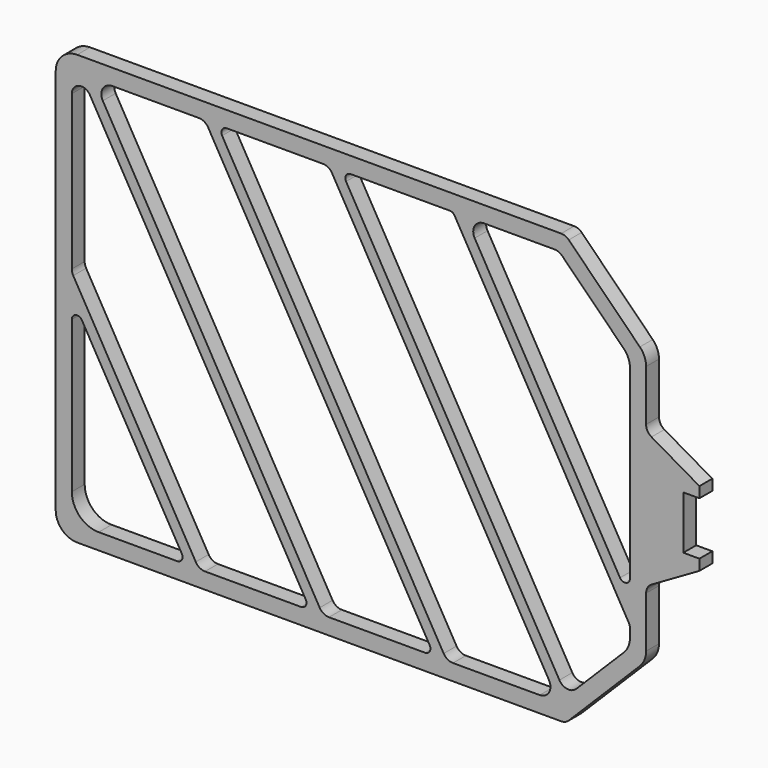
from build123d import *

# Parameters (mm, degrees)
F1_DEPTH = 3


with BuildPart() as f1:
    # F0 (on Front) → F1 (new body)
    with BuildSketch(Plane.XZ):
        with BuildLine():
            ThreePointArc((-55, -36), (-53.828427, -38.828427), (-51, -40))
            Line((-51, -40), (39.171573, -40))
            ThreePointArc((39.171573, -40), (39.93694, -39.847759), (40.585786, -39.414214))
            Line((40.585786, -39.414214), (53.828427, -26.171573))
            ThreePointArc((53.828427, -26.171573), (54.695518, -24.873879), (55, -23.343146))
            Line((55, -23.343146), (55, -13.837789))
            ThreePointArc((55, -13.837789), (55.267949, -12.837789), (56, -12.105738))
            Line((56, -12.105738), (64.93, -6.95))
            Line((64.93, -6.95), (64.93, -4.95))
            Line((64.93, -4.95), (61.93, -4.95))
            Line((61.93, -4.95), (61.93, 4.95))
            Line((61.93, 4.95), (64.93, 4.95))
            Line((64.93, 4.95), (64.93, 6.95))
            Line((64.93, 6.95), (56, 12.105738))
            ThreePointArc((56, 12.105738), (55.267949, 12.837789), (55, 13.837789))
            Line((55, 13.837789), (55, 23.343146))
            ThreePointArc((55, 23.343146), (54.695518, 24.873879), (53.828427, 26.171573))
            Line((53.828427, 26.171573), (40.585786, 39.414214))
            ThreePointArc((40.585786, 39.414214), (39.93694, 39.847759), (39.171573, 40))
            Line((39.171573, 40), (35.757359, 40))
            Line((35.757359, 40), (-51, 40))
            ThreePointArc((-51, 40), (-53.828427, 38.828427), (-55, 36))
            Line((-55, 36), (-55, -36))
        make_face()
        with BuildLine():
            ThreePointArc((-47, -37), (-50.535534, -35.535534), (-52, -32))
            Line((-52, -32), (-52, -3.732051))
            ThreePointArc((-52, -3.732051), (-51.258819, -2.766125), (-50.133975, -3.232051))
            Line((-50.133975, -3.232051), (-31.504065, -35.5))
            ThreePointArc((-31.504065, -35.5), (-31.504065, -36.5), (-32.370091, -37))
            Line((-32.370091, -37), (-47, -37))
        make_face(mode=Mode.SUBTRACT)
        with BuildLine():
            Line((-28.905989, -36), (-51.732051, 3.535898))
            ThreePointArc((-51.732051, 3.535898), (-51.931852, 4.01826), (-52, 4.535898))
            Line((-52, 4.535898), (-52, 33.282309))
            ThreePointArc((-52, 33.282309), (-50.665874, 35.020975), (-48.641154, 34.182309))
            Line((-48.641154, 34.182309), (-8.410055, -35.5))
            ThreePointArc((-8.410055, -35.5), (-8.410055, -36.5), (-9.27608, -37))
            Line((-9.27608, -37), (-27.173938, -37))
            ThreePointArc((-27.173938, -37), (-28.173938, -36.732051), (-28.905989, -36))
        make_face(mode=Mode.SUBTRACT)
        with BuildLine():
            ThreePointArc((-46.226497, 34), (-46.226497, 36), (-44.494447, 37))
            Line((-44.494447, 37), (-28.328639, 37))
            ThreePointArc((-28.328639, 37), (-27.328639, 36.732051), (-26.596588, 36))
            Line((-26.596588, 36), (14.683956, -35.5))
            ThreePointArc((14.683956, -35.5), (14.683956, -36.5), (13.817931, -37))
            Line((13.817931, -37), (-4.079928, -37))
            ThreePointArc((-4.079928, -37), (-5.079928, -36.732051), (-5.811978, -36))
            Line((-5.811978, -36), (-46.226497, 34))
        make_face(mode=Mode.SUBTRACT)
        with BuildLine():
            Line((17.282032, -36), (-23.998512, 35.5))
            ThreePointArc((-23.998512, 35.5), (-23.998512, 36.5), (-23.132487, 37))
            Line((-23.132487, 37), (-5.234628, 37))
            ThreePointArc((-5.234628, 37), (-4.234628, 36.732051), (-3.502577, 36))
            Line((-3.502577, 36), (36.911941, -34))
            ThreePointArc((36.911941, -34), (36.911941, -36), (35.179891, -37))
            Line((35.179891, -37), (19.014083, -37))
            ThreePointArc((19.014083, -37), (18.014083, -36.732051), (17.282032, -36))
        make_face(mode=Mode.SUBTRACT)
        with BuildLine():
            Line((52, -20.669182), (52, -22.100505))
            ThreePointArc((52, -22.100505), (51.695518, -23.631239), (50.828427, -24.928932))
            Line((50.828427, -24.928932), (41.992628, -33.764731))
            ThreePointArc((41.992628, -33.764731), (40.317362, -34.333407), (38.846364, -33.350518))
            Line((38.846364, -33.350518), (-0.904501, 35.5))
            ThreePointArc((-0.904501, 35.5), (-0.904501, 36.5), (-0.038476, 37))
            Line((-0.038476, 37), (18.436733, 37))
            ThreePointArc((18.436733, 37), (18.936733, 36.866025), (19.302758, 36.5))
            Line((19.302758, 36.5), (51.732051, -19.669182))
            ThreePointArc((51.732051, -19.669182), (51.931852, -20.151544), (52, -20.669182))
        make_face(mode=Mode.SUBTRACT)
        with BuildLine():
            Line((50.133975, -12.901233), (23.055535, 34))
            ThreePointArc((23.055535, 34), (23.055535, 36), (24.787586, 37))
            Line((24.787586, 37), (37.928932, 37))
            ThreePointArc((37.928932, 37), (38.694299, 36.847759), (39.343146, 36.414214))
            Line((39.343146, 36.414214), (50.828427, 24.928932))
            ThreePointArc((50.828427, 24.928932), (51.695518, 23.631239), (52, 22.100505))
            Line((52, 22.100505), (52, -12.401233))
            ThreePointArc((52, -12.401233), (51.258819, -13.367159), (50.133975, -12.901233))
        make_face(mode=Mode.SUBTRACT)
    extrude(amount=F1_DEPTH)


solid = f1.part
